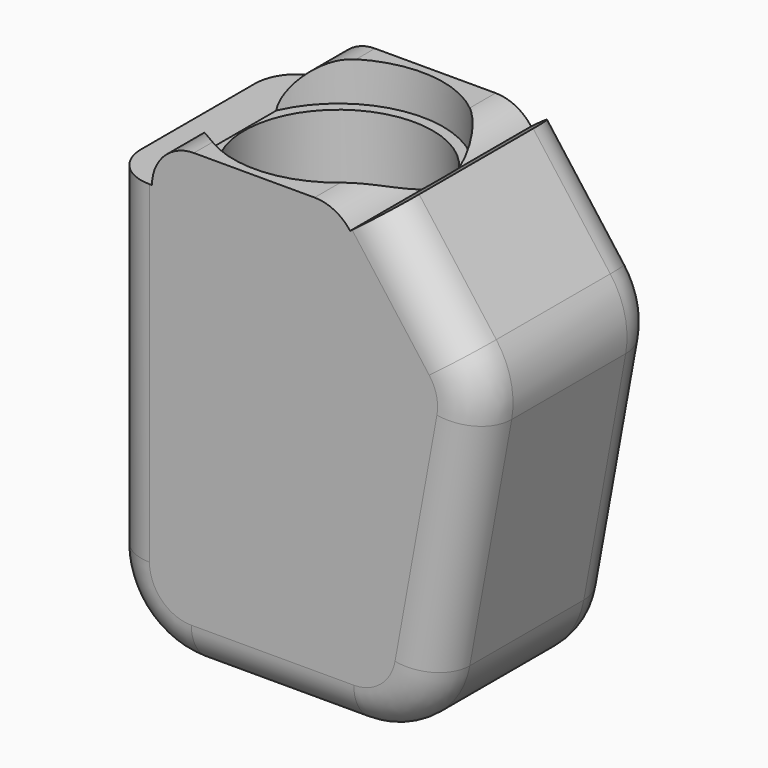
from build123d import *

# Parameters (mm, degrees)
PAD_DEPTH       = 13.5
FILLET_R        = 10
FILLET001_R     = 5
SKETCH006_R     = 11.25
POCKET_DEPTH    = 35.001
POCKET001_DEPTH = 24
SKETCH009_W     = 1.7
SKETCH009_H     = 3
POCKET002_DEPTH = 16
SKETCH010_W     = 9.1
SKETCH010_H     = 3.39
POCKET003_DEPTH = 1
FILLET002_R     = 1
FILLET003_R     = 1
FILLET004_R     = 1
FILLET005_R     = 0.5
FILLET006_R     = 0.5
FILLET007_R     = 0.25
FILLET008_R     = 0.5
FILLET009_R     = 0.13
FILLET010_R     = 10
FILLET011_R     = 1
FILLET012_R     = 0.25
FILLET013_R     = 0.5
FILLET014_R     = 0.5
FILLET015_R     = 0.9
POCKET007_DEPTH = 0.5
POCKET017_DEPTH = 27.001
SKETCH039_R     = 12.5
POCKET020_DEPTH = 5
POCKET022_DEPTH = 27.001
SKETCH046_W     = 3.5
SKETCH046_H     = 3.5
POCKET024_DEPTH = 10
FILLET051_R     = 1


with BuildPart() as part:
    # Sketch → Pad (new body, symmetric)
    with BuildSketch(Plane.XZ):
        Polygon((0, 75), (30, 75), (45, 55), (37.727273, 15), (0, 15), align=None)
    extrude(amount=PAD_DEPTH, both=True)

    # Fillet
    fillet_edges = [part.edges().sort_by_distance(p)[0] for p in [
        (30, 0, 75),
        (45, 0, 55),
        (37.727273, 0, 15),
        (0, 0, 75),
        (0, 0, 15),
    ]]
    fillet(fillet_edges, radius=FILLET_R)

    # Fillet001
    fillet001_edges = [part.edges().sort_by_distance(p)[0] for p in [
        (37.69012, -13.5, 64.746507),
        (37.69012, 13.5, 64.746507),
    ]]
    fillet(fillet001_edges, radius=FILLET001_R)

    # Sketch006 (on Face30 of Fillet001) → Pocket (cut, through all)
    with BuildSketch(Plane(origin=(0, 0, 40), x_dir=(1, 0, 0), z_dir=(0, 0, -1))):
        with Locations((16.75, 0)):
            Circle(SKETCH006_R)
    extrude(amount=-POCKET_DEPTH, mode=Mode.SUBTRACT)

    # Sketch008 (on Face11 of Pocket) → Pocket001 (cut)
    with BuildSketch(Plane(origin=(0, 0, 40), x_dir=(-1, 0, 0), z_dir=(0, 0, 1))):
        Polygon((-7.65, 5.5), (-7.65, 1), (-11.75, 1), (-11.75, -2.5), (-21.75, -2.5), (-21.75, 1), (-25.85, 1), (-25.85, 5.5), (-20.85, 3.8), (-12.65, 3.8), align=None)
    extrude(amount=-POCKET001_DEPTH, mode=Mode.SUBTRACT)

    # Sketch009 (on Face11 of Pocket001) → Pocket002 (cut)
    with BuildSketch(Plane(origin=(0, 0, 40), x_dir=(-1, 0, 0), z_dir=(0, 0, 1))):
        with Locations((-22.6, -0.5)):
            Rectangle(SKETCH009_W, SKETCH009_H)
        with Locations((-10.9, -0.5)):
            Rectangle(SKETCH009_W, SKETCH009_H)
    extrude(amount=-POCKET002_DEPTH, mode=Mode.SUBTRACT)

    # Sketch010 (on Face43 of Pocket002) → Pocket003 (cut)
    with BuildSketch(Plane(origin=(0, 0, 15), x_dir=(1, 0, 0), z_dir=(0, 0, -1))):
        with Locations((16.75, -0.445)):
            Rectangle(SKETCH010_W, SKETCH010_H)
    extrude(amount=-POCKET003_DEPTH, mode=Mode.SUBTRACT)

    # Fillet002
    fillet002_edges = [part.edges().sort_by_distance(p)[0] for p in [
        (12.2, 2.14, 15.5),
        (21.3, 2.14, 15.5),
    ]]
    fillet(fillet002_edges, radius=FILLET002_R)

    # Fillet003
    fillet003_edges = [part.edges().sort_by_distance(p)[0] for p in [
        (12.2, -1.25, 15.5),
        (21.3, -1.25, 15.5),
    ]]
    fillet(fillet003_edges, radius=FILLET003_R)

    # Fillet004
    fillet004_edges = [part.edges().sort_by_distance(p)[0] for p in [
        (21.75, -1, 20),
        (11.75, -1, 20),
    ]]
    fillet(fillet004_edges, radius=FILLET004_R)

    # Fillet005
    fillet005_edges = [part.edges().sort_by_distance(p)[0] for p in [
        (21.75, 2.5, 28),
        (11.75, 2.5, 28),
    ]]
    fillet(fillet005_edges, radius=FILLET005_R)

    # Fillet006
    fillet006_edges = [part.edges().sort_by_distance(p)[0] for p in [
        (10.05, 2, 32),
        (23.45, 2, 32),
    ]]
    fillet(fillet006_edges, radius=FILLET006_R)

    # Fillet007
    fillet007_edges = [part.edges().sort_by_distance(p)[0] for p in [
        (23.303553, 1.853553, 24),
        (10.196447, 1.853553, 24),
    ]]
    fillet(fillet007_edges, radius=FILLET007_R)

    # Fillet008
    fillet008_edges = [part.edges().sort_by_distance(p)[0] for p in [
        (22.042893, -0.707107, 24),
        (11.457107, -0.707107, 24),
    ]]
    fillet(fillet008_edges, radius=FILLET008_R)

    # Fillet009
    fillet009_edges = [part.edges().sort_by_distance(p)[0] for p in [
        (7.65, -1, 28),
        (25.85, -1, 28),
    ]]
    fillet(fillet009_edges, radius=FILLET009_R)

    # Fillet010
    fillet010_edges = [part.edges().sort_by_distance(p)[0] for p in [
        (12.65, -3.8, 28),
        (20.85, -3.8, 28),
    ]]
    fillet(fillet010_edges, radius=FILLET010_R)

    # Fillet011
    fillet011_edges = [part.edges().sort_by_distance(p)[0] for p in [
        (25.85, -5.5, 28),
        (7.65, -5.5, 28),
    ]]
    fillet(fillet011_edges, radius=FILLET011_R)

    # Fillet012
    fillet012_edges = [part.edges().sort_by_distance(p)[0] for p in [
        (16.75, 2.5, 16),
    ]]
    fillet(fillet012_edges, radius=FILLET012_R)

    # Fillet013
    fillet013_edges = [part.edges().sort_by_distance(p)[0] for p in [
        (16.75, 2.5, 40),
    ]]
    fillet(fillet013_edges, radius=FILLET013_R)

    # Fillet014
    fillet014_edges = [part.edges().sort_by_distance(p)[0] for p in [
        (5.5, 0, 40),
    ]]
    fillet(fillet014_edges, radius=FILLET014_R)

    # Fillet015
    fillet015_edges = [part.edges().sort_by_distance(p)[0] for p in [
        (5.5, 0, 73.930286),
    ]]
    fillet(fillet015_edges, radius=FILLET015_R)

    # Sketch021 (on Face127 of Fillet015) → Pocket007 (cut)
    with BuildSketch(Plane(origin=(0, 0, 15), x_dir=(1, 0, 0), z_dir=(0, 0, -1))):
        with BuildLine():
            Line((12.2, -3.14), (21.3, -3.14))
            ThreePointArc((21.3, -3.14), (22.007107, -2.847107), (22.3, -2.14))
            Line((22.3, -2.14), (22.3, 1.25))
            ThreePointArc((22.3, 1.25), (22.007107, 1.957107), (21.3, 2.25))
            Line((21.3, 2.25), (12.2, 2.25))
            ThreePointArc((12.2, 2.25), (11.492893, 1.957107), (11.2, 1.25))
            Line((11.2, 1.25), (11.2, -2.14))
            ThreePointArc((11.2, -2.14), (11.492893, -2.847107), (12.2, -3.14))
        make_face()
    extrude(amount=-POCKET007_DEPTH, mode=Mode.SUBTRACT)

    # Sketch037 (on Face47 of Pocket007) → Pocket017 (cut, through all)
    with BuildSketch(Plane.XZ.offset(13.5)):
        with BuildLine():
            Line((0, 65), (5, 65))
            ThreePointArc((10, 70), (6.464466, 68.535534), (5, 65))
            Line((10, 70), (25, 70))
            ThreePointArc((29, 68), (27.236068, 69.472136), (25, 70))
            Line((29, 68), (33, 71))
            Line((33, 77), (33, 71))
            Line((0, 77), (33, 77))
            Line((0, 65), (0, 77))
        make_face()
    extrude(amount=-POCKET017_DEPTH, mode=Mode.SUBTRACT)

    # Sketch039 (on Face6 of Pocket017) → Pocket020 (cut)
    with BuildSketch(Plane(origin=(0, 0, 70), x_dir=(-1, 0, 0), z_dir=(0, 0, 1))):
        with Locations((-16.75, 0)):
            Circle(SKETCH039_R)
    extrude(amount=-POCKET020_DEPTH, mode=Mode.SUBTRACT)

    # Sketch044 (on Face9 of Pocket020) → Pocket022 (cut, through all)
    with BuildSketch(Plane.XZ.offset(13.5)):
        with BuildLine():
            Line((0, 76.33), (0, 64.7))
            Line((0, 64.7), (5.3, 64.7))
            ThreePointArc((10.3, 69.7), (6.764466, 68.235534), (5.3, 64.7))
            Line((10.3, 69.7), (24.7, 69.7))
            ThreePointArc((28.94, 67.58), (27.070232, 69.140464), (24.7, 69.7))
            Line((28.94, 67.58), (33.94, 71.33))
            Line((33.94, 71.33), (33.94, 76.33))
            Line((33.94, 76.33), (0, 76.33))
        make_face()
    extrude(amount=-POCKET022_DEPTH, mode=Mode.SUBTRACT)

    # Sketch046 (on Face67 of Pocket022) → Pocket024 (cut)
    with BuildSketch(Plane.XZ.offset(-2.5)):
        with Locations((16.75, 31.75)):
            Rectangle(SKETCH046_W, SKETCH046_H)
    extrude(amount=-POCKET024_DEPTH, mode=Mode.SUBTRACT)

    # Fillet051
    fillet051_edges = [part.edges().sort_by_distance(p)[0] for p in [
        (18.5, 7.5, 33.5),
        (15, 7.5, 33.5),
        (15, 7.5, 30),
        (18.5, 7.5, 30),
    ]]
    fillet(fillet051_edges, radius=FILLET051_R)


solid = part.part
